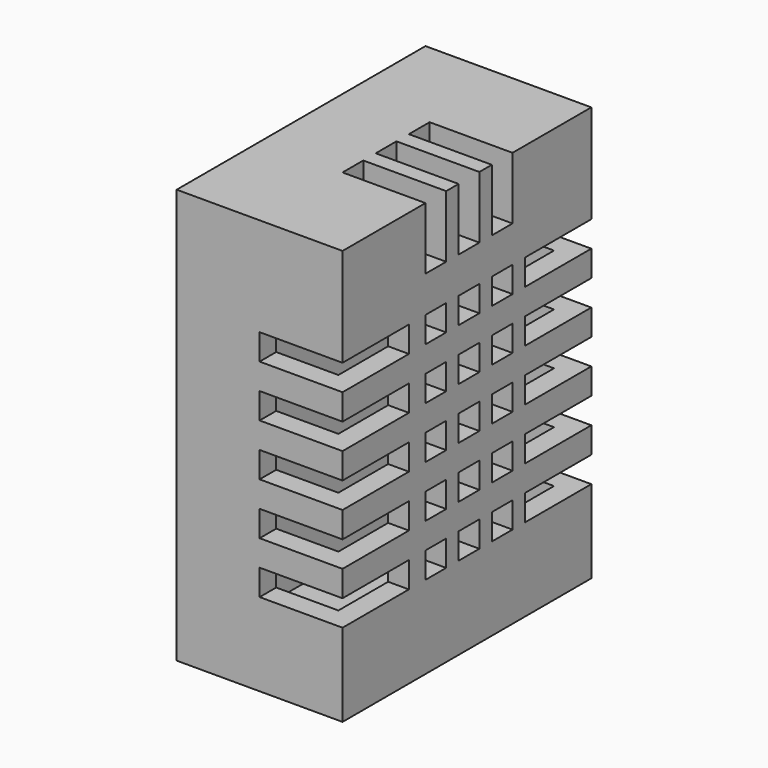
from build123d import *

# Parameters (mm, degrees)
BOX029_W     = 6
BOX029_H     = 13
BOX029_DEPTH = 18
BOX027_W     = 4
BOX027_H     = 1.25
BOX027_DEPTH = 3
BOX026_W     = 4
BOX026_H     = 1.25
BOX026_DEPTH = 3
BOX028_W     = 4
BOX028_H     = 1.25
BOX028_DEPTH = 3
BOX025_W     = 4
BOX025_H     = 4
BOX025_DEPTH = 1.25
BOX024_W     = 4
BOX024_H     = 4
BOX024_DEPTH = 1.25
BOX023_W     = 4
BOX023_H     = 4
BOX023_DEPTH = 1.25
BOX022_W     = 4
BOX022_H     = 4
BOX022_DEPTH = 1.25
BOX021_W     = 4
BOX021_H     = 4
BOX021_DEPTH = 1.25
BOX020_W     = 4
BOX020_H     = 4
BOX020_DEPTH = 1.25
BOX019_W     = 4
BOX019_H     = 4
BOX019_DEPTH = 1.25
BOX018_W     = 4
BOX018_H     = 4
BOX018_DEPTH = 1.25
BOX017_W     = 4
BOX017_H     = 4
BOX017_DEPTH = 1.25
BOX016_W     = 4
BOX016_H     = 4
BOX016_DEPTH = 1.25
BOX015_W     = 7
BOX015_H     = 1.25
BOX015_DEPTH = 1.25
BOX014_W     = 7
BOX014_H     = 1.25
BOX014_DEPTH = 1.25
BOX013_W     = 7
BOX013_H     = 1.25
BOX013_DEPTH = 1.25
BOX012_W     = 7
BOX012_H     = 1.25
BOX012_DEPTH = 1.25
BOX011_W     = 7
BOX011_H     = 1.25
BOX011_DEPTH = 1.25
BOX010_W     = 7
BOX010_H     = 1.25
BOX010_DEPTH = 1.25
BOX009_W     = 7
BOX009_H     = 1.25
BOX009_DEPTH = 1.25
BOX008_W     = 7
BOX008_H     = 1.25
BOX008_DEPTH = 1.25
BOX007_W     = 7
BOX007_H     = 1.25
BOX007_DEPTH = 1.25
BOX006_W     = 7
BOX006_H     = 1.25
BOX006_DEPTH = 1.25
BOX005_W     = 7
BOX005_H     = 1.25
BOX005_DEPTH = 1.25
BOX004_W     = 7
BOX004_H     = 1.25
BOX004_DEPTH = 1.25
BOX003_W     = 7
BOX003_H     = 1.25
BOX003_DEPTH = 1.25
BOX002_W     = 7
BOX002_H     = 1.25
BOX002_DEPTH = 1.25
BOX001_W     = 7
BOX001_H     = 1.25
BOX001_DEPTH = 1.25
BOX_W        = 8
BOX_H        = 15
BOX_DEPTH    = 20


with BuildPart() as middle:
    # Box029 → Box029 (new body)
    with BuildSketch(Plane(origin=(1, 1, 2), x_dir=(1, 0, 0), z_dir=(0, 0, 1))):
        with Locations((3, 6.5)):
            Rectangle(BOX029_W, BOX029_H)
    extrude(amount=BOX029_DEPTH)


with BuildPart() as cube027:
    # Box027 → Box027 (new body)
    with BuildSketch(Plane(origin=(4, 7, 18), x_dir=(1, 0, 0), z_dir=(0, 0, 1))):
        with Locations((2, 0.625)):
            Rectangle(BOX027_W, BOX027_H)
    extrude(amount=BOX027_DEPTH)


with BuildPart() as cube026:
    # Box026 → Box026 (new body)
    with BuildSketch(Plane(origin=(4, 9, 18), x_dir=(1, 0, 0), z_dir=(0, 0, 1))):
        with Locations((2, 0.625)):
            Rectangle(BOX026_W, BOX026_H)
    extrude(amount=BOX026_DEPTH)


with BuildPart() as cube028:
    # Box028 → Box028 (new body)
    with BuildSketch(Plane(origin=(4, 5, 18), x_dir=(1, 0, 0), z_dir=(0, 0, 1))):
        with Locations((2, 0.625)):
            Rectangle(BOX028_W, BOX028_H)
    extrude(amount=BOX028_DEPTH)


with BuildPart() as cube025:
    # Box025 → Box025 (new body)
    with BuildSketch(Plane(origin=(4, 11, 5), x_dir=(1, 0, 0), z_dir=(0, 0, 1))):
        with Locations((2, 2)):
            Rectangle(BOX025_W, BOX025_H)
    extrude(amount=BOX025_DEPTH)


with BuildPart() as cube024:
    # Box024 → Box024 (new body)
    with BuildSketch(Plane(origin=(4, 11, 7.5), x_dir=(1, 0, 0), z_dir=(0, 0, 1))):
        with Locations((2, 2)):
            Rectangle(BOX024_W, BOX024_H)
    extrude(amount=BOX024_DEPTH)


with BuildPart() as cube023:
    # Box023 → Box023 (new body)
    with BuildSketch(Plane(origin=(4, 11, 10), x_dir=(1, 0, 0), z_dir=(0, 0, 1))):
        with Locations((2, 2)):
            Rectangle(BOX023_W, BOX023_H)
    extrude(amount=BOX023_DEPTH)


with BuildPart() as cube022:
    # Box022 → Box022 (new body)
    with BuildSketch(Plane(origin=(4, 11, 12.5), x_dir=(1, 0, 0), z_dir=(0, 0, 1))):
        with Locations((2, 2)):
            Rectangle(BOX022_W, BOX022_H)
    extrude(amount=BOX022_DEPTH)


with BuildPart() as cube021:
    # Box021 → Box021 (new body)
    with BuildSketch(Plane(origin=(4, 11, 15), x_dir=(1, 0, 0), z_dir=(0, 0, 1))):
        with Locations((2, 2)):
            Rectangle(BOX021_W, BOX021_H)
    extrude(amount=BOX021_DEPTH)


with BuildPart() as cube020:
    # Box020 → Box020 (new body)
    with BuildSketch(Plane(origin=(4, 0, 15), x_dir=(1, 0, 0), z_dir=(0, 0, 1))):
        with Locations((2, 2)):
            Rectangle(BOX020_W, BOX020_H)
    extrude(amount=BOX020_DEPTH)


with BuildPart() as cube019:
    # Box019 → Box019 (new body)
    with BuildSketch(Plane(origin=(4, 0, 12.5), x_dir=(1, 0, 0), z_dir=(0, 0, 1))):
        with Locations((2, 2)):
            Rectangle(BOX019_W, BOX019_H)
    extrude(amount=BOX019_DEPTH)


with BuildPart() as cube018:
    # Box018 → Box018 (new body)
    with BuildSketch(Plane(origin=(4, 0, 10), x_dir=(1, 0, 0), z_dir=(0, 0, 1))):
        with Locations((2, 2)):
            Rectangle(BOX018_W, BOX018_H)
    extrude(amount=BOX018_DEPTH)


with BuildPart() as cube017:
    # Box017 → Box017 (new body)
    with BuildSketch(Plane(origin=(4, 0, 7.5), x_dir=(1, 0, 0), z_dir=(0, 0, 1))):
        with Locations((2, 2)):
            Rectangle(BOX017_W, BOX017_H)
    extrude(amount=BOX017_DEPTH)


with BuildPart() as cube016:
    # Box016 → Box016 (new body)
    with BuildSketch(Plane(origin=(4, 0, 5), x_dir=(1, 0, 0), z_dir=(0, 0, 1))):
        with Locations((2, 2)):
            Rectangle(BOX016_W, BOX016_H)
    extrude(amount=BOX016_DEPTH)


with BuildPart() as cube015:
    # Box015 → Box015 (new body)
    with BuildSketch(Plane(origin=(1, 9, 5), x_dir=(1, 0, 0), z_dir=(0, 0, 1))):
        with Locations((3.5, 0.625)):
            Rectangle(BOX015_W, BOX015_H)
    extrude(amount=BOX015_DEPTH)


with BuildPart() as cube014:
    # Box014 → Box014 (new body)
    with BuildSketch(Plane(origin=(1, 7, 5), x_dir=(1, 0, 0), z_dir=(0, 0, 1))):
        with Locations((3.5, 0.625)):
            Rectangle(BOX014_W, BOX014_H)
    extrude(amount=BOX014_DEPTH)


with BuildPart() as cube013:
    # Box013 → Box013 (new body)
    with BuildSketch(Plane(origin=(1, 5, 5), x_dir=(1, 0, 0), z_dir=(0, 0, 1))):
        with Locations((3.5, 0.625)):
            Rectangle(BOX013_W, BOX013_H)
    extrude(amount=BOX013_DEPTH)


with BuildPart() as cube012:
    # Box012 → Box012 (new body)
    with BuildSketch(Plane(origin=(1, 5, 7.5), x_dir=(1, 0, 0), z_dir=(0, 0, 1))):
        with Locations((3.5, 0.625)):
            Rectangle(BOX012_W, BOX012_H)
    extrude(amount=BOX012_DEPTH)


with BuildPart() as cube011:
    # Box011 → Box011 (new body)
    with BuildSketch(Plane(origin=(1, 7, 7.5), x_dir=(1, 0, 0), z_dir=(0, 0, 1))):
        with Locations((3.5, 0.625)):
            Rectangle(BOX011_W, BOX011_H)
    extrude(amount=BOX011_DEPTH)


with BuildPart() as cube010:
    # Box010 → Box010 (new body)
    with BuildSketch(Plane(origin=(1, 7, 10), x_dir=(1, 0, 0), z_dir=(0, 0, 1))):
        with Locations((3.5, 0.625)):
            Rectangle(BOX010_W, BOX010_H)
    extrude(amount=BOX010_DEPTH)


with BuildPart() as cube009:
    # Box009 → Box009 (new body)
    with BuildSketch(Plane(origin=(1, 9, 7.5), x_dir=(1, 0, 0), z_dir=(0, 0, 1))):
        with Locations((3.5, 0.625)):
            Rectangle(BOX009_W, BOX009_H)
    extrude(amount=BOX009_DEPTH)


with BuildPart() as cube008:
    # Box008 → Box008 (new body)
    with BuildSketch(Plane(origin=(1, 9, 10), x_dir=(1, 0, 0), z_dir=(0, 0, 1))):
        with Locations((3.5, 0.625)):
            Rectangle(BOX008_W, BOX008_H)
    extrude(amount=BOX008_DEPTH)


with BuildPart() as cube007:
    # Box007 → Box007 (new body)
    with BuildSketch(Plane(origin=(1, 5, 10), x_dir=(1, 0, 0), z_dir=(0, 0, 1))):
        with Locations((3.5, 0.625)):
            Rectangle(BOX007_W, BOX007_H)
    extrude(amount=BOX007_DEPTH)


with BuildPart() as cube006:
    # Box006 → Box006 (new body)
    with BuildSketch(Plane(origin=(1, 5, 12.5), x_dir=(1, 0, 0), z_dir=(0, 0, 1))):
        with Locations((3.5, 0.625)):
            Rectangle(BOX006_W, BOX006_H)
    extrude(amount=BOX006_DEPTH)


with BuildPart() as cube005:
    # Box005 → Box005 (new body)
    with BuildSketch(Plane(origin=(1, 9, 12.5), x_dir=(1, 0, 0), z_dir=(0, 0, 1))):
        with Locations((3.5, 0.625)):
            Rectangle(BOX005_W, BOX005_H)
    extrude(amount=BOX005_DEPTH)


with BuildPart() as cube004:
    # Box004 → Box004 (new body)
    with BuildSketch(Plane(origin=(1, 7, 12.5), x_dir=(1, 0, 0), z_dir=(0, 0, 1))):
        with Locations((3.5, 0.625)):
            Rectangle(BOX004_W, BOX004_H)
    extrude(amount=BOX004_DEPTH)


with BuildPart() as cube003:
    # Box003 → Box003 (new body)
    with BuildSketch(Plane(origin=(1, 9, 15), x_dir=(1, 0, 0), z_dir=(0, 0, 1))):
        with Locations((3.5, 0.625)):
            Rectangle(BOX003_W, BOX003_H)
    extrude(amount=BOX003_DEPTH)


with BuildPart() as cube002:
    # Box002 → Box002 (new body)
    with BuildSketch(Plane(origin=(1, 7, 15), x_dir=(1, 0, 0), z_dir=(0, 0, 1))):
        with Locations((3.5, 0.625)):
            Rectangle(BOX002_W, BOX002_H)
    extrude(amount=BOX002_DEPTH)


with BuildPart() as cube001:
    # Box001 → Box001 (new body)
    with BuildSketch(Plane(origin=(1, 5, 15), x_dir=(1, 0, 0), z_dir=(0, 0, 1))):
        with Locations((3.5, 0.625)):
            Rectangle(BOX001_W, BOX001_H)
    extrude(amount=BOX001_DEPTH)


with BuildPart() as cut045:
    # Box → Box (new body)
    with BuildSketch(Plane.XY.offset(1)):
        with Locations((4, 7.5)):
            Rectangle(BOX_W, BOX_H)
    extrude(amount=BOX_DEPTH)

    # Cut: cut Cube001
    add(cube001.part, mode=Mode.SUBTRACT)

    # Cut001: cut Cube002
    add(cube002.part, mode=Mode.SUBTRACT)

    # Cut002: cut Cube003
    add(cube003.part, mode=Mode.SUBTRACT)

    # Cut003: cut Cube004
    add(cube004.part, mode=Mode.SUBTRACT)

    # Cut004: cut Cube005
    add(cube005.part, mode=Mode.SUBTRACT)

    # Cut005: cut Cube006
    add(cube006.part, mode=Mode.SUBTRACT)

    # Cut006: cut Cube007
    add(cube007.part, mode=Mode.SUBTRACT)

    # Cut007: cut Cube008
    add(cube008.part, mode=Mode.SUBTRACT)

    # Cut008: cut Cube009
    add(cube009.part, mode=Mode.SUBTRACT)

    # Cut009: cut Cube010
    add(cube010.part, mode=Mode.SUBTRACT)

    # Cut010: cut Cube011
    add(cube011.part, mode=Mode.SUBTRACT)

    # Cut011: cut Cube012
    add(cube012.part, mode=Mode.SUBTRACT)

    # Cut012: cut Cube013
    add(cube013.part, mode=Mode.SUBTRACT)

    # Cut013: cut Cube014
    add(cube014.part, mode=Mode.SUBTRACT)

    # Cut014: cut Cube015
    add(cube015.part, mode=Mode.SUBTRACT)

    # Cut032: cut Cube016
    add(cube016.part, mode=Mode.SUBTRACT)

    # Cut033: cut Cube017
    add(cube017.part, mode=Mode.SUBTRACT)

    # Cut034: cut Cube018
    add(cube018.part, mode=Mode.SUBTRACT)

    # Cut035: cut Cube019
    add(cube019.part, mode=Mode.SUBTRACT)

    # Cut036: cut Cube020
    add(cube020.part, mode=Mode.SUBTRACT)

    # Cut037: cut Cube021
    add(cube021.part, mode=Mode.SUBTRACT)

    # Cut038: cut Cube022
    add(cube022.part, mode=Mode.SUBTRACT)

    # Cut039: cut Cube023
    add(cube023.part, mode=Mode.SUBTRACT)

    # Cut040: cut Cube024
    add(cube024.part, mode=Mode.SUBTRACT)

    # Cut041: cut Cube025
    add(cube025.part, mode=Mode.SUBTRACT)

    # Cut042: cut Cube028
    add(cube028.part, mode=Mode.SUBTRACT)

    # Cut043: cut Cube026
    add(cube026.part, mode=Mode.SUBTRACT)

    # Cut044: cut Cube027
    add(cube027.part, mode=Mode.SUBTRACT)

    # Cut045: cut Middle
    add(middle.part, mode=Mode.SUBTRACT)


solid = cut045.part
